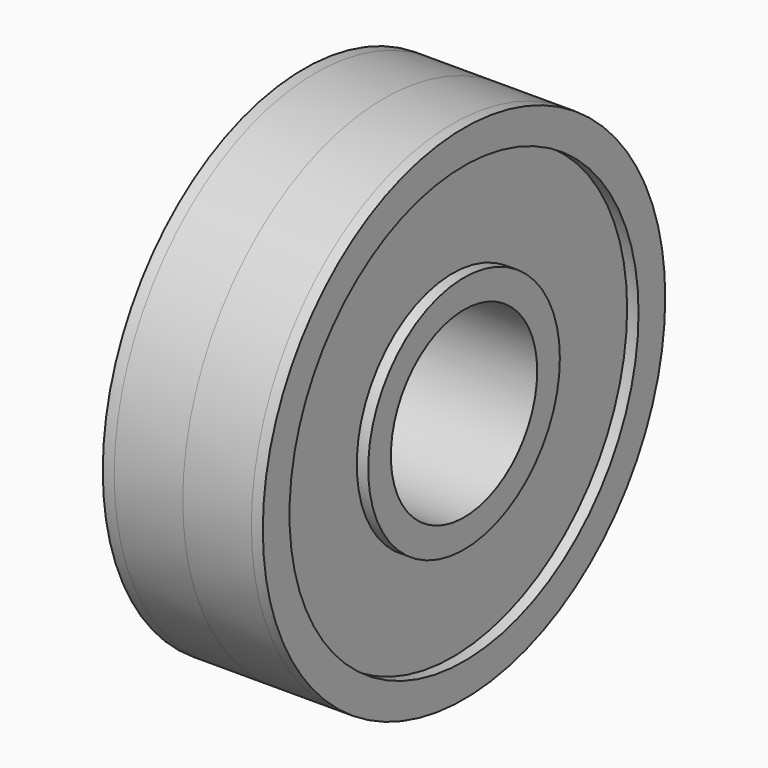
from build123d import *

# Parameters (mm, degrees)
F0_R     = 11
F0_R_2   = 4
F1_DEPTH = 3
F2_R     = 11
F2_R_2   = 9.5415407764
F2_R_3   = 5.2393235044
F2_R_4   = 4
F3_DEPTH = 3.5


with BuildPart() as f1:
    # F0 (on Right) → F1 (new body, symmetric)
    with BuildSketch(Plane.YZ):
        Circle(F0_R)
        Circle(F0_R_2, mode=Mode.SUBTRACT)
    extrude(amount=F1_DEPTH, both=True)

    # F2 (on Right) → F3 (join, symmetric)
    with BuildSketch(Plane.YZ):
        Circle(F2_R)
        Circle(F2_R_2, mode=Mode.SUBTRACT)
        Circle(F2_R_3)
        Circle(F2_R_4, mode=Mode.SUBTRACT)
    extrude(amount=F3_DEPTH, both=True)


solid = f1.part
